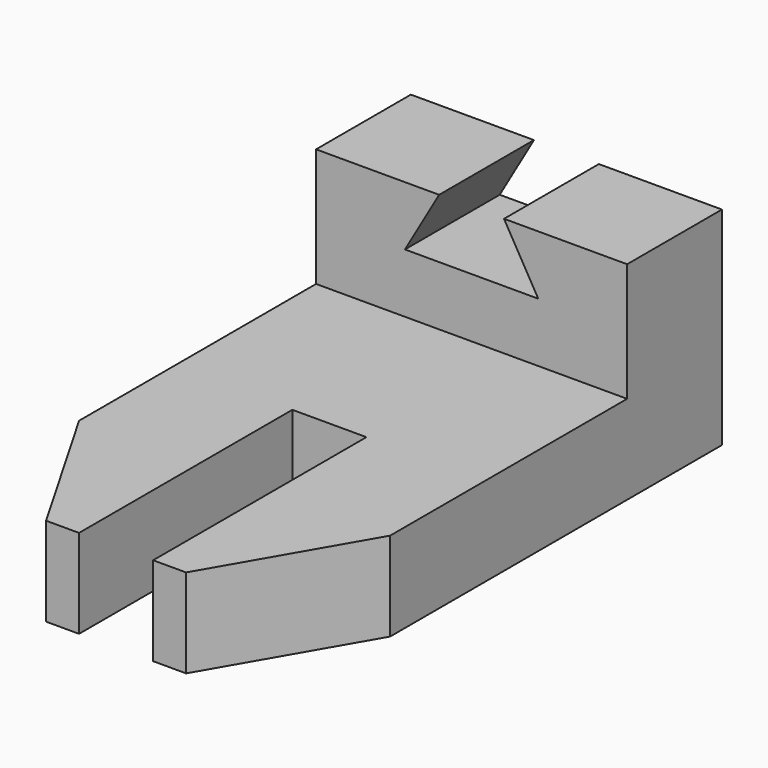
from build123d import *

# Parameters (mm, degrees)
F1_DEPTH = 19.05
F3_DEPTH = 25.4


with BuildPart() as f1:
    # F0 (on Top) → F1 (new body)
    with BuildSketch(Plane.XY):
        Polygon((38.729571, 51.290266), (-27.945429, 51.290266), (-27.945429, -37.609734), (-9.614558, -69.359734), (-2.545429, -69.359734), (-2.545429, -12.209734), (13.329571, -12.209734), (13.329571, -69.359734), (20.3987, -69.359734), (38.729571, -37.609734), align=None)
    extrude(amount=F1_DEPTH)

    # F2 (on face) → F3 (join)
    with BuildSketch(Plane(origin=(0, 51.290266, 0), x_dir=(-1, 0, 0), z_dir=(0, 1, 0))):
        Polygon((-38.729571, 44.45), (-38.729571, 19.05), (27.945429, 19.05), (27.945429, 44.45), (1.563081, 44.45), (8.895429, 31.75), (-19.679571, 31.75), (-12.347222, 44.45), align=None)
    extrude(amount=-F3_DEPTH)


solid = f1.part
